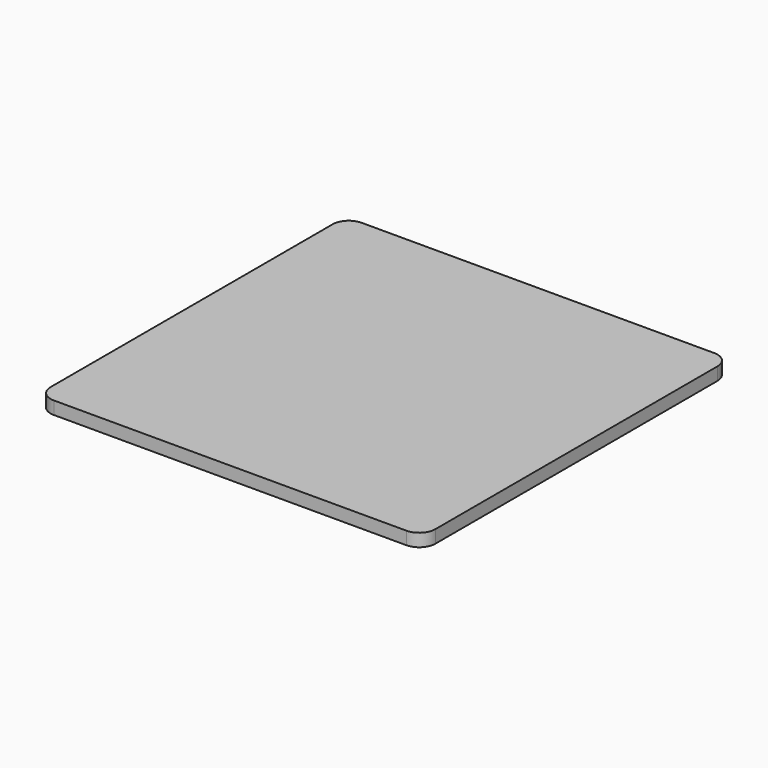
from build123d import *

# Parameters (mm, degrees)
F0_W     = 120
F0_H     = 120
F1_DEPTH = 4
F2_R     = 5


with BuildPart() as f1:
    # F0 (on Top) → F1 (new body)
    with BuildSketch(Plane.XY):
        Rectangle(F0_W, F0_H)
        Rectangle(F0_W, F0_H)
    extrude(amount=F1_DEPTH)

    # F2
    f2_edges = [f1.edges().sort_by_distance(p)[0] for p in [
        (60, -60, 2),
        (-60, -60, 2),
        (60, 60, 2),
        (-60, 60, 2),
    ]]
    fillet(f2_edges, radius=F2_R)


solid = f1.part
